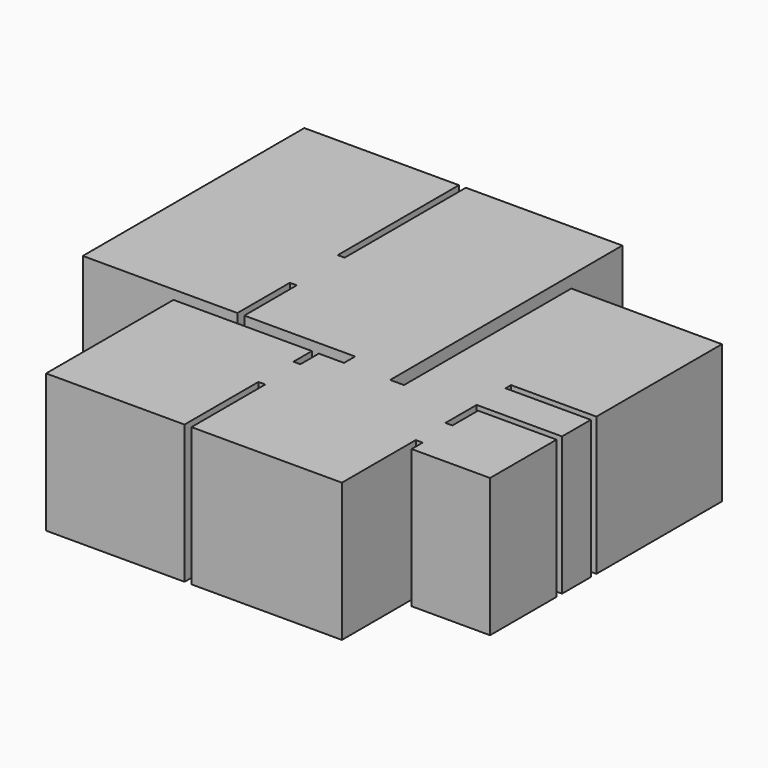
from build123d import *

# Parameters (mm, degrees)
F1_DEPTH = 3000


with BuildPart() as f1:
    # F0 (on Top) → F1 (new body)
    with BuildSketch(Plane.XY):
        Polygon((3350, 0), (0, 0), (0, -6000), (3350, -6000), (3350, -4579.691163), (3500, -4579.691163), (3500, -6000), (5900, -6000), (5900, -6300), (5354.383537, -6300), (5354.383537, -6800), (5204.383537, -6800), (5204.383537, -6300), (2204.383537, -6300), (2204.383537, -9750), (5204.383537, -9750), (5204.383537, -7750), (5354.383537, -7750), (5354.383537, -9750), (8614.383537, -9750), (8614.383537, -7750), (8764.383537, -7750), (8764.383537, -8050), (10464.383537, -8050), (10464.383537, -6250), (8764.383537, -6250), (8764.383537, -6945.523262), (8614.383537, -6945.523262), (8614.383537, -6100), (8764.383537, -6100), (10464.383537, -6100), (10464.383537, -5320), (8614.383537, -5320), (8614.383537, -5170), (10464.383537, -5170), (10464.383537, -1770), (7200, -1770), (7200, -6300), (6900, -6300), (6890, 0), (3500, 0), (3500, -3282.274732), (3350, -3282.274732), align=None)
    extrude(amount=F1_DEPTH)


solid = f1.part
